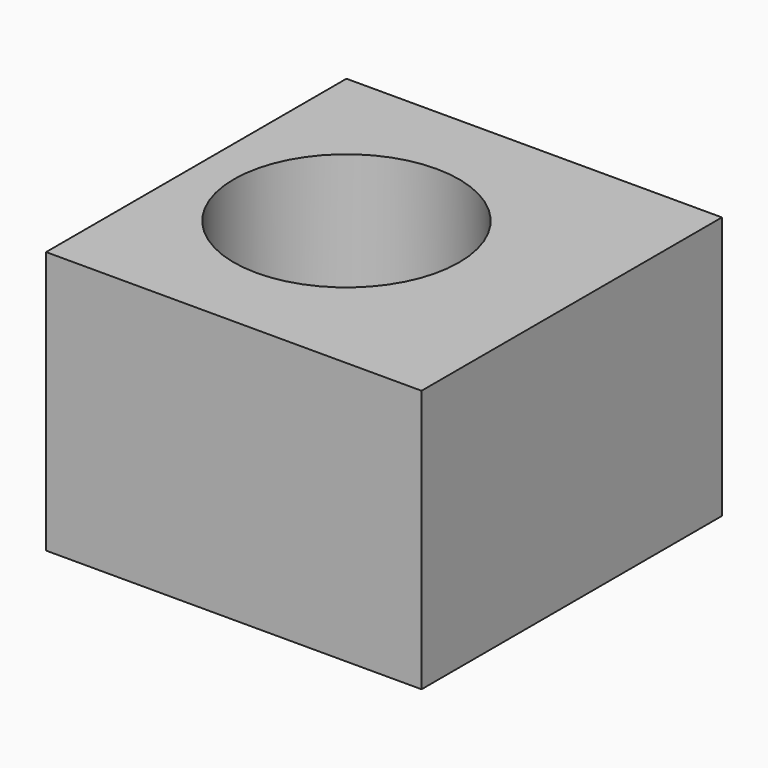
from build123d import *

# Parameters (mm, degrees)
CYLINDER_R     = 1.5
CYLINDER_DEPTH = 10
BOX008_W       = 5
BOX008_H       = 5
BOX008_DEPTH   = 3.5


with BuildPart() as hole:
    # Cylinder → Cylinder (new body)
    with BuildSketch(Plane(origin=(9.3, 4.5, 0), x_dir=(1, 0, 0), z_dir=(0, 0, 1))):
        Circle(CYLINDER_R)
    extrude(amount=CYLINDER_DEPTH)


with BuildPart() as stand_hole_cut:
    # Box008 → Box008 (new body)
    with BuildSketch(Plane(origin=(7.3, 2, 0), x_dir=(1, 0, 0), z_dir=(0, 0, 1))):
        with Locations((2.5, 2.5)):
            Rectangle(BOX008_W, BOX008_H)
    extrude(amount=BOX008_DEPTH)

    # Cut003002: cut hole
    add(hole.part, mode=Mode.SUBTRACT)


solid = stand_hole_cut.part
